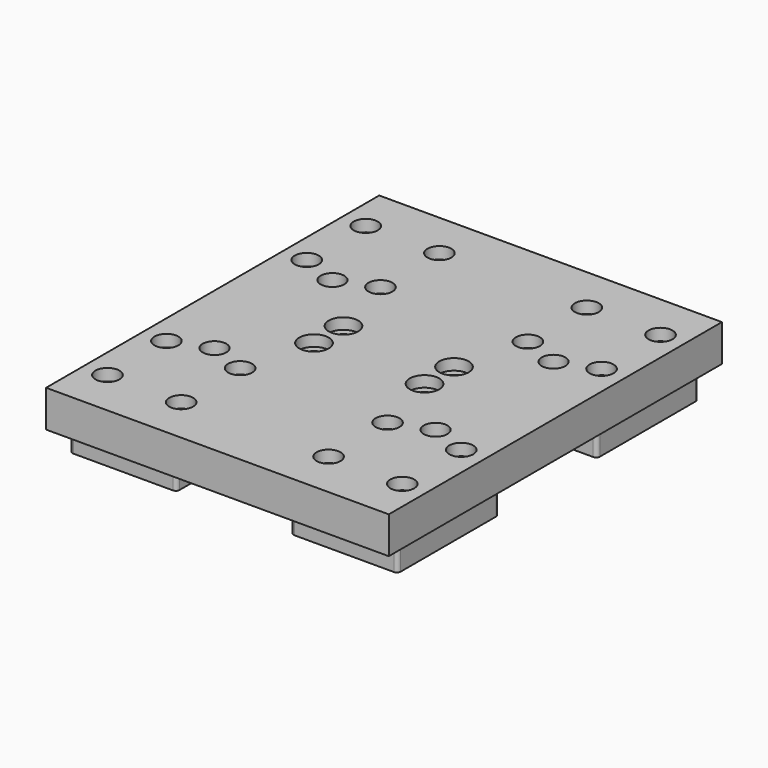
from build123d import *

# Parameters (mm, degrees)
SKETCH_W        = 93
SKETCH_H        = 113
SKETCH_R        = 2.1
SKETCH_R_2      = 1.6
SKETCH_R_3      = 3.2
PAD_DEPTH       = 17
SKETCH001_W     = 93
SKETCH001_H     = 113
POCKET_DEPTH    = 7
SKETCH003_R     = 3.25
POCKET001_DEPTH = 3.2
SKETCH004_R     = 4
POCKET002_DEPTH = 3
POCKET003_DEPTH = 5.7


with BuildPart() as part:
    # Sketch → Pad (new body)
    with BuildSketch(Plane.XY):
        with Locations((46.5, 56.5)):
            Rectangle(SKETCH_W, SKETCH_H)
        with Locations((31.5, 61.5)):
            Circle(SKETCH_R, mode=Mode.SUBTRACT)
        with Locations((61.5, 61.5)):
            Circle(SKETCH_R, mode=Mode.SUBTRACT)
        with Locations((61.5, 51.5)):
            Circle(SKETCH_R, mode=Mode.SUBTRACT)
        with Locations((31.5, 51.5)):
            Circle(SKETCH_R, mode=Mode.SUBTRACT)
        with Locations((6.5, 100.3)):
            Circle(SKETCH_R_2, mode=Mode.SUBTRACT)
        with Locations((26.5, 100.3)):
            Circle(SKETCH_R_2, mode=Mode.SUBTRACT)
        with Locations((26.5, 80.3)):
            Circle(SKETCH_R_2, mode=Mode.SUBTRACT)
        with Locations((6.5, 80.3)):
            Circle(SKETCH_R_2, mode=Mode.SUBTRACT)
        with Locations((26.5, 12.7)):
            Circle(SKETCH_R_2, mode=Mode.SUBTRACT)
        with Locations((6.5, 12.7)):
            Circle(SKETCH_R_2, mode=Mode.SUBTRACT)
        with Locations((6.5, 32.7)):
            Circle(SKETCH_R_2, mode=Mode.SUBTRACT)
        with Locations((26.5, 32.7)):
            Circle(SKETCH_R_2, mode=Mode.SUBTRACT)
        with Locations((66.5, 100.3)):
            Circle(SKETCH_R_2, mode=Mode.SUBTRACT)
        with Locations((86.5, 100.3)):
            Circle(SKETCH_R_2, mode=Mode.SUBTRACT)
        with Locations((86.5, 80.3)):
            Circle(SKETCH_R_2, mode=Mode.SUBTRACT)
        with Locations((66.5, 80.3)):
            Circle(SKETCH_R_2, mode=Mode.SUBTRACT)
        with Locations((66.5, 32.7)):
            Circle(SKETCH_R_2, mode=Mode.SUBTRACT)
        with Locations((86.5, 32.7)):
            Circle(SKETCH_R_2, mode=Mode.SUBTRACT)
        with Locations((86.5, 12.7)):
            Circle(SKETCH_R_2, mode=Mode.SUBTRACT)
        with Locations((66.5, 12.7)):
            Circle(SKETCH_R_2, mode=Mode.SUBTRACT)
        with Locations((16.5, 36.5)):
            Circle(SKETCH_R_3, mode=Mode.SUBTRACT)
        with Locations((76.5, 36.5)):
            Circle(SKETCH_R_3, mode=Mode.SUBTRACT)
        with Locations((76.5, 76.5)):
            Circle(SKETCH_R_3, mode=Mode.SUBTRACT)
        with Locations((16.5, 76.5)):
            Circle(SKETCH_R_3, mode=Mode.SUBTRACT)
    extrude(amount=PAD_DEPTH)

    # Sketch001 (on Face29 of Pad) → Pocket (cut)
    with BuildSketch(Plane(origin=(0, 84, 0), x_dir=(1, 0, 0), z_dir=(0, 0, -1))):
        with Locations((46.5, 27.5)):
            Rectangle(SKETCH001_W, SKETCH001_H)
        with BuildLine():
            Line((2, 45.1), (2, 77.50001))
            ThreePointArc((3, 78.5), (2.292897, 78.20711), (2, 77.50001))
            Line((3, 78.5), (30, 78.5))
            ThreePointArc((31, 77.50001), (30.707103, 78.20711), (30, 78.5))
            Line((31, 77.50001), (31, 45.1))
            ThreePointArc((30, 44.1), (30.707107, 44.392893), (31, 45.1))
            Line((30, 44.1), (24, 44.1))
            ThreePointArc((23, 45.1), (23.292893, 44.392893), (24, 44.1))
            Line((23, 47.5), (23, 45.1))
            ThreePointArc((23, 47.5), (16.5, 54), (10, 47.5))
            Line((10, 47.5), (10, 45.1))
            ThreePointArc((9, 44.1), (9.707107, 44.392893), (10, 45.1))
            Line((3, 44.1), (9, 44.1))
            ThreePointArc((2, 45.1), (2.292893, 44.392893), (3, 44.1))
        make_face(mode=Mode.SUBTRACT)
        with BuildLine():
            ThreePointArc((89.999999, 44.1), (90.707107, 44.392893), (91.000001, 45.1))
            Line((91.000001, 77.5), (91.000001, 45.1))
            ThreePointArc((91.000001, 77.5), (90.707107, 78.207107), (90.000001, 78.5))
            Line((63.000001, 78.5), (90.000001, 78.5))
            ThreePointArc((63.000001, 78.5), (62.292894, 78.207107), (62.000001, 77.5))
            Line((62.000001, 45.1), (62.000001, 77.5))
            ThreePointArc((62.000001, 45.1), (62.292894, 44.392893), (63.000001, 44.1))
            Line((63.000001, 44.1), (69, 44.1))
            ThreePointArc((69, 44.1), (69.707107, 44.392893), (70, 45.1))
            Line((70, 47.5), (70, 45.1))
            ThreePointArc((83, 47.5), (76.5, 54), (70, 47.5))
            Line((83, 47.5), (83, 45.1))
            ThreePointArc((83, 45.1), (83.292893, 44.392893), (84, 44.1))
            Line((89.999999, 44.1), (84, 44.1))
        make_face(mode=Mode.SUBTRACT)
        with BuildLine():
            Line((31, 9.9), (31, -22.5))
            ThreePointArc((30, -23.5), (30.707107, -23.207107), (31, -22.5))
            Line((30, -23.5), (3, -23.5))
            ThreePointArc((2, -22.5), (2.292893, -23.207107), (3, -23.5))
            Line((2, -22.5), (2, 9.9))
            ThreePointArc((3, 10.9), (2.292893, 10.607107), (2, 9.9))
            Line((3, 10.9), (9, 10.9))
            ThreePointArc((10, 9.9), (9.707107, 10.607107), (9, 10.9))
            Line((10, 7.5), (10, 9.9))
            ThreePointArc((10, 7.5), (16.5, 1), (23, 7.5))
            Line((23, 7.5), (23, 9.9))
            ThreePointArc((24, 10.9), (23.292893, 10.607107), (23, 9.9))
            Line((30, 10.9), (24, 10.9))
            ThreePointArc((31, 9.9), (30.707107, 10.607107), (30, 10.9))
        make_face(mode=Mode.SUBTRACT)
        with BuildLine():
            Line((91, 9.9), (91, -22.5))
            ThreePointArc((90, -23.5), (90.707107, -23.207107), (91, -22.5))
            Line((90, -23.5), (63, -23.5))
            ThreePointArc((62, -22.5), (62.292893, -23.207107), (63, -23.5))
            Line((62, -22.5), (62, 9.9))
            ThreePointArc((63, 10.9), (62.292893, 10.607107), (62, 9.9))
            Line((63, 10.9), (69, 10.9))
            ThreePointArc((70, 9.9), (69.707107, 10.607107), (69, 10.9))
            Line((70, 7.5), (70, 9.9))
            ThreePointArc((70, 7.5), (76.5, 1), (83, 7.5))
            Line((83, 7.5), (83, 9.9))
            ThreePointArc((84, 10.9), (83.292893, 10.607107), (83, 9.9))
            Line((90, 10.9), (84, 10.9))
            ThreePointArc((91, 9.9), (90.707107, 10.607107), (90, 10.9))
        make_face(mode=Mode.SUBTRACT)
    extrude(amount=-POCKET_DEPTH, mode=Mode.SUBTRACT)

    # Sketch003 (on Face4 of Pocket) → Pocket001 (cut)
    with BuildSketch(Plane.XY.offset(17)):
        with Locations((6.5, 100.3)):
            Circle(SKETCH003_R)
        with Locations((26.5, 100.3)):
            Circle(SKETCH003_R)
        with Locations((26.5, 80.3)):
            Circle(SKETCH003_R)
        with Locations((6.5, 80.3)):
            Circle(SKETCH003_R)
        with Locations((66.5, 100.3)):
            Circle(SKETCH003_R)
        with Locations((66.5, 80.3)):
            Circle(SKETCH003_R)
        with Locations((86.5, 80.3)):
            Circle(SKETCH003_R)
        with Locations((86.5, 100.3)):
            Circle(SKETCH003_R)
        with Locations((86.5, 12.7)):
            Circle(SKETCH003_R)
        with Locations((66.5, 12.7)):
            Circle(SKETCH003_R)
        with Locations((66.5, 32.7)):
            Circle(SKETCH003_R)
        with Locations((86.5, 32.7)):
            Circle(SKETCH003_R)
        with Locations((6.5, 32.7)):
            Circle(SKETCH003_R)
        with Locations((26.5, 32.7)):
            Circle(SKETCH003_R)
        with Locations((26.5, 12.7)):
            Circle(SKETCH003_R)
        with Locations((6.5, 12.7)):
            Circle(SKETCH003_R)
    extrude(amount=-POCKET001_DEPTH, mode=Mode.SUBTRACT)

    # Sketch004 (on Face4 of Pocket001) → Pocket002 (cut)
    with BuildSketch(Plane.XY.offset(17)):
        with Locations((31.5, 61.5)):
            Circle(SKETCH004_R)
        with Locations((31.5, 51.5)):
            Circle(SKETCH004_R)
        with Locations((61.5, 51.5)):
            Circle(SKETCH004_R)
        with Locations((61.5, 61.5)):
            Circle(SKETCH004_R)
    extrude(amount=-POCKET002_DEPTH, mode=Mode.SUBTRACT)

    # Sketch005 (on Face2 of Pocket002) → Pocket003 (cut)
    with BuildSketch(Plane(origin=(0, 113, 7), x_dir=(1, 0, 0), z_dir=(0, 0, -1))):
        Polygon((10.668762, 36.5), (13.584381, 31.45), (19.415619, 31.45), (22.331238, 36.5), (19.415619, 41.55), (13.584381, 41.55), align=None)
        Polygon((73.584381, 31.45), (79.415619, 31.45), (82.331238, 36.5), (79.415619, 41.55), (73.584381, 41.55), (70.668762, 36.5), align=None)
        Polygon((73.584381, 71.45), (79.415619, 71.45), (82.331238, 76.5), (79.415619, 81.55), (73.584381, 81.55), (70.668762, 76.5), align=None)
        Polygon((13.584381, 71.45), (19.415619, 71.45), (22.331238, 76.5), (19.415619, 81.55), (13.584381, 81.55), (10.668762, 76.5), align=None)
    extrude(amount=-POCKET003_DEPTH, mode=Mode.SUBTRACT)


solid = part.part
